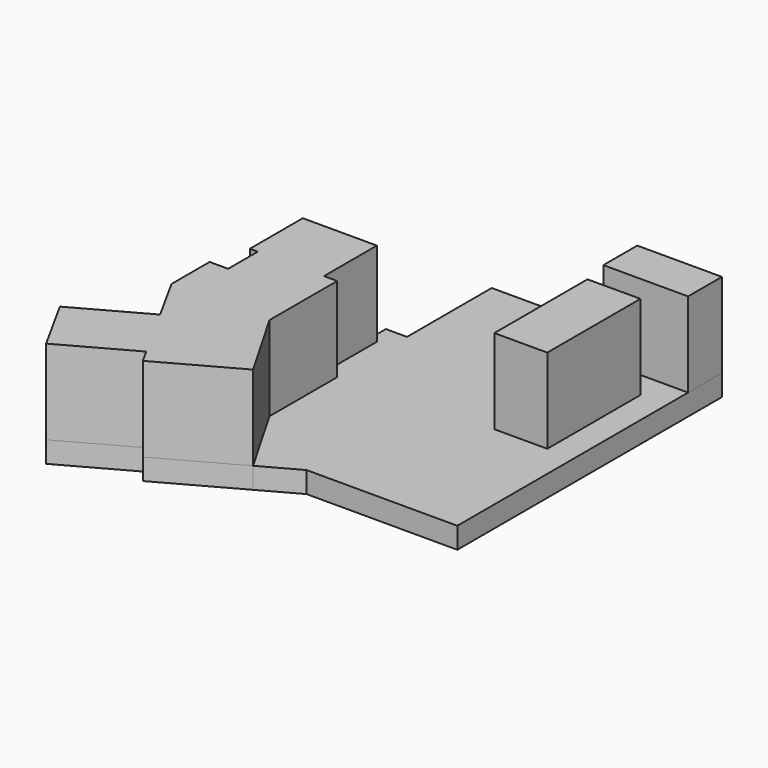
from build123d import *

# Parameters (mm, degrees)
F0_W     = 1.75
F0_H     = 4.5
F0_W_2   = 8
F0_H_2   = 4
F0_W_3   = 5
F0_H_3   = 11
F1_DEPTH = 10
F2_W     = 5
F2_H     = 11
F2_W_2   = 8
F2_H_2   = 4
F3_DEPTH = 2


with BuildPart() as f1:
    # F0 (on Top) → F1 (new body)
    with BuildSketch(Plane.XY):
        Polygon((-26.07695, 6.529059), (-33.07695, 6.529059), (-33.07695, 0.279059), (-32.32695, 0.279059), (-26.07695, 0.279059), align=None)
        Polygon((-24.82695, 0.279059), (-26.07695, 0.279059), (-32.32695, 0.279059), (-32.32695, -3.220941), (-32.32695, -7.720941), (-24.82695, -7.720941), align=None)
        with Locations((-33.20195, -5.470941)):
            Rectangle(F0_W, F0_H)
        Polygon((-20.826182, -14.650474), (-24.82695, -7.720941), (-32.32695, -7.720941), (-34.07695, -7.720941), (-31.678288, -12.070558), (-28.780666, -17.324488), (-28.056261, -18.637971), align=None)
        Polygon((-28.780666, -17.324488), (-31.678288, -12.070558), (-38.245701, -15.692584), (-35.34808, -20.946515), align=None)
        with Locations((-7.07695, 16.529059)):
            Rectangle(F0_W_2, F0_H_2)
        with Locations((-8.07695, 6.529059)):
            Rectangle(F0_W_3, F0_H_3)
    extrude(amount=F1_DEPTH)


with BuildPart() as f3:
    # F2 (on Top) → F3 (new body)
    with BuildSketch(Plane.XY):
        Polygon((-38.245701, -15.692584), (-35.34808, -20.946515), (-28.780666, -17.324488), (-28.056261, -18.637971), (-20.826182, -14.650474), (-24.82695, -7.720941), (-24.82695, 0.279059), (-26.07695, 0.279059), (-26.07695, 6.529059), (-26.82695, 6.529059), (-26.917022, 6.529059), (-33.07695, 6.529059), (-33.07695, 0.279059), (-32.32695, 0.279059), (-32.32695, -3.220941), (-34.07695, -3.220941), (-34.07695, -7.720941), (-31.678288, -12.070558), align=None)
        Polygon((-24.82695, -7.720941), (-20.826182, -14.650474), (-17.323561, -12.718727), (-3.07695, -12.718727), (-3.07695, 14.529059), (-11.07695, 14.529059), (-11.07695, 18.529059), (-24.82695, 18.529059), (-24.82695, 8.529059), (-26.82695, 8.529059), (-26.82695, 6.529059), (-26.07695, 6.529059), (-26.07695, 0.279059), (-24.82695, 0.279059), align=None)
        with Locations((-8.07695, 6.529059)):
            Rectangle(F2_W, F2_H, mode=Mode.SUBTRACT)
        with Locations((-7.07695, 16.529059)):
            Rectangle(F2_W_2, F2_H_2)
    extrude(amount=F3_DEPTH)


solid = Compound([f1.part, f3.part])
